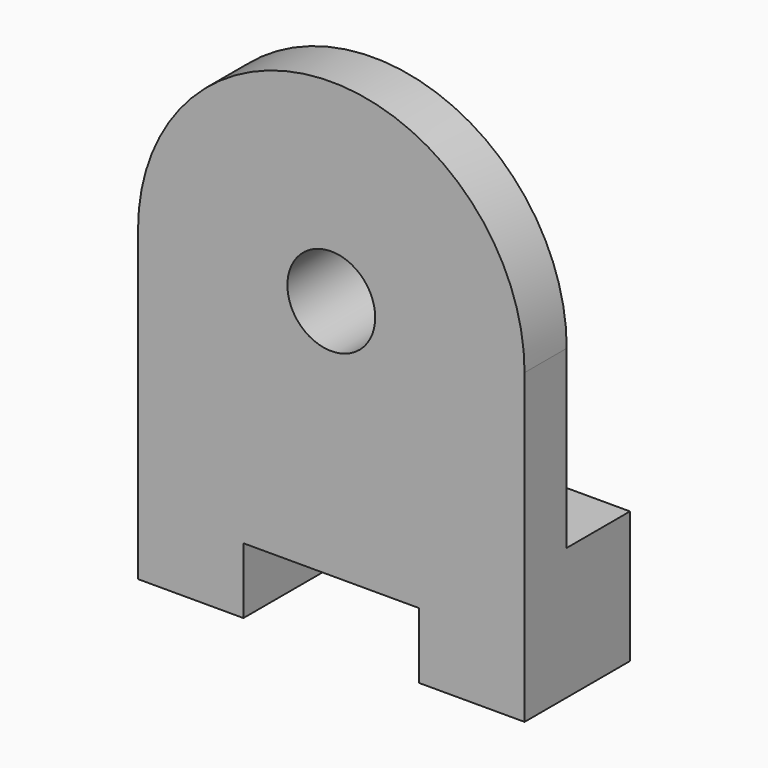
from build123d import *

# Parameters (mm, degrees)
F1_DEPTH = 30
F0_R     = 20
F2_DEPTH = 12
F0_R_2   = 10
F3_DEPTH = 28


with BuildPart() as f1:
    # F0 (on Front) → F1 (new body)
    with BuildSketch(Plane.XZ):
        Polygon((-44, 0.63053), (-44, -29.36947), (-20, -29.36947), (-20, -14.36947), (20, -14.36947), (20, -29.36947), (44, -29.36947), (44, 0.63053), align=None)
    extrude(amount=-F1_DEPTH)

    # F0 (on Front) → F2 (join)
    with BuildSketch(Plane.XZ):
        Polygon((-44, 0.63053), (-44, -29.36947), (-20, -29.36947), (-20, -14.36947), (20, -14.36947), (20, -29.36947), (44, -29.36947), (44, 0.63053), align=None)
        with BuildLine():
            Line((-44, 40.63053), (-44, 0.63053))
            Line((-44, 0.63053), (44, 0.63053))
            Line((44, 0.63053), (44, 40.63053))
            ThreePointArc((44, 40.63053), (0, 84.63053), (-44, 40.63053))
        make_face()
        with Locations((0, 40.63053)):
            Circle(F0_R, mode=Mode.SUBTRACT)
    extrude(amount=-F2_DEPTH)

    # F0 (on Front) → F3 (join)
    with BuildSketch(Plane.XZ):
        with Locations((0, 40.63053)):
            Circle(F0_R)
        with Locations((0, 40.63053)):
            Circle(F0_R_2, mode=Mode.SUBTRACT)
    extrude(amount=-F3_DEPTH)


solid = f1.part
